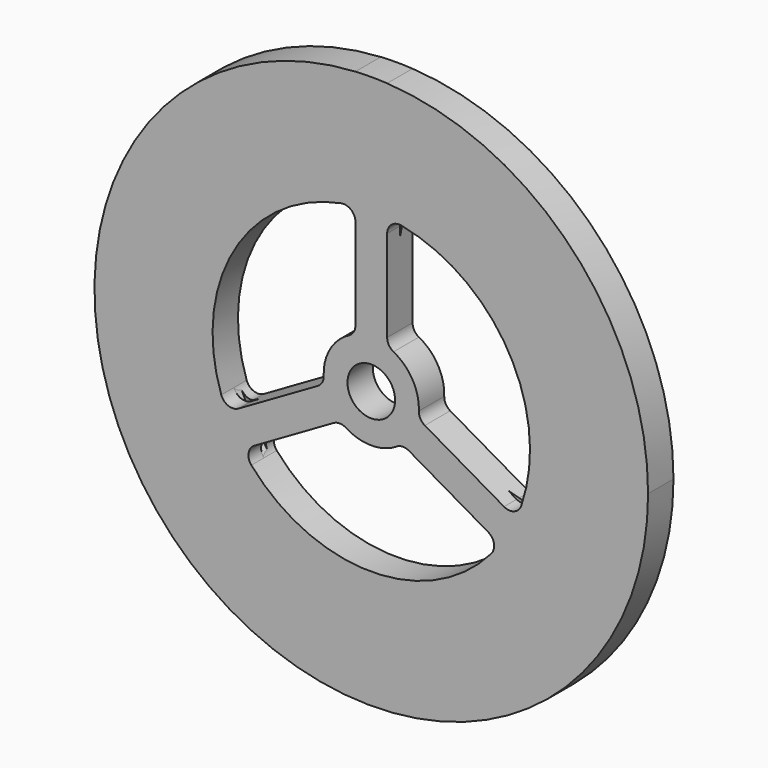
from build123d import *

# Parameters (mm, degrees)
F0_R     = 1.5
F1_DEPTH = 1


with BuildPart() as f1:
    # F0 (on Front) → F1 (new body, symmetric)
    with BuildSketch(Plane.XZ):
        with BuildLine():
            ThreePointArc((-1, 17.412308), (-11.973877, -12.681275), (17.441, 0))
            ThreePointArc((17.441, 0), (12.681275, 11.973877), (1, 17.412308))
            ThreePointArc((1, 17.412308), (0, 17.441), (-1, 17.412308))
        make_face()
        with BuildLine():
            ThreePointArc((-2.373679, -2.525145), (-1.983172, -2.424438), (-1.596733, -2.539773))
            ThreePointArc((-1.596733, -2.539773), (0, -3), (1.596733, -2.539773))
            ThreePointArc((1.596733, -2.539773), (1.983172, -2.424438), (2.373679, -2.525145))
            Line((2.373679, -2.525145), (7.363259, -5.40588))
            ThreePointArc((7.363259, -5.40588), (7.729194, -5.933007), (7.555614, -6.550779))
            ThreePointArc((7.555614, -6.550779), (0, -10), (-7.555614, -6.550779))
            ThreePointArc((-7.555614, -6.550779), (-7.729194, -5.933007), (-7.363259, -5.40588))
            Line((-7.363259, -5.40588), (-2.373679, -2.525145))
        make_face(mode=Mode.SUBTRACT)
        with BuildLine():
            ThreePointArc((-9.450948, -3.267964), (-8.660254, 5), (-1.895334, 9.818743))
            ThreePointArc((-1.895334, 9.818743), (-1.273538, 9.660182), (-1, 9.079709))
            Line((-1, 9.079709), (-1, 3.318238))
            ThreePointArc((-1, 3.318238), (-1.108039, 2.929697), (-1.401141, 2.652697))
            ThreePointArc((-1.401141, 2.652697), (-2.598076, 1.5), (-2.997874, -0.112925))
            ThreePointArc((-2.997874, -0.112925), (-3.091211, -0.505258), (-3.373679, -0.793094))
            Line((-3.373679, -0.793094), (-8.363259, -3.673829))
            ThreePointArc((-8.363259, -3.673829), (-9.002732, -3.727174), (-9.450948, -3.267964))
        make_face(mode=Mode.SUBTRACT)
        Circle(F0_R, mode=Mode.SUBTRACT)
        with BuildLine():
            Line((1, 3.318238), (1, 9.079709))
            ThreePointArc((1, 9.079709), (1.273538, 9.660182), (1.895334, 9.818743))
            ThreePointArc((1.895334, 9.818743), (8.660254, 5), (9.450948, -3.267964))
            ThreePointArc((9.450948, -3.267964), (9.002732, -3.727174), (8.363259, -3.673829))
            Line((8.363259, -3.673829), (3.373679, -0.793094))
            ThreePointArc((3.373679, -0.793094), (3.091211, -0.505258), (2.997874, -0.112925))
            ThreePointArc((2.997874, -0.112925), (2.598076, 1.5), (1.401141, 2.652697))
            ThreePointArc((1.401141, 2.652697), (1.108039, 2.929697), (1, 3.318238))
        make_face(mode=Mode.SUBTRACT)
    extrude(amount=F1_DEPTH, both=True)

    # F2 (on Right) → F3 (revolve, cut)
    with BuildSketch(Plane.YZ):
        Polygon((0.4216, 9.94), (0, 10), (0, 8.5), align=None)
    revolve(axis=Axis((0, -2.204443, 0), (0, 1, 0)), mode=Mode.SUBTRACT)


solid = f1.part
